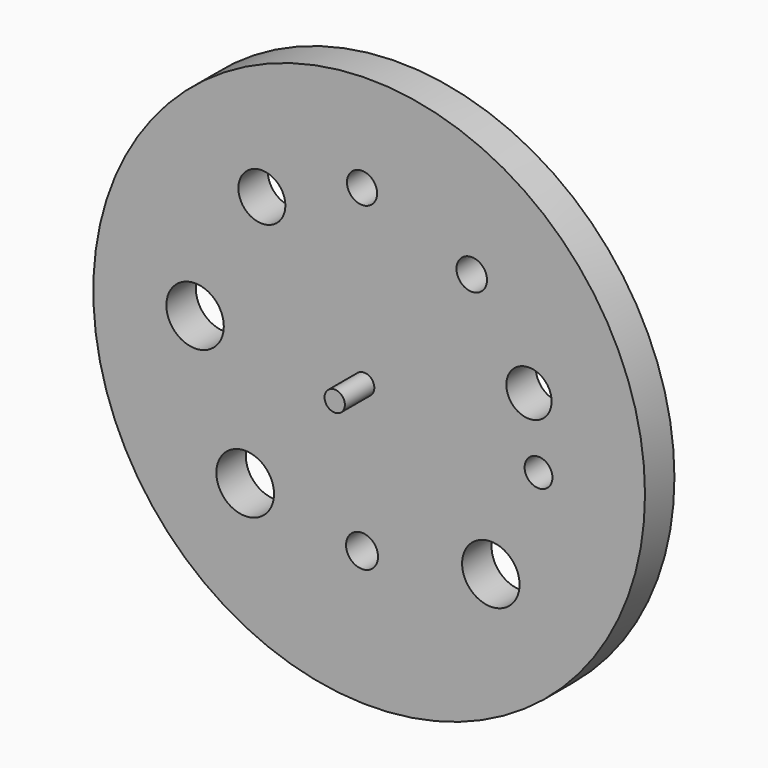
from build123d import *

# Parameters (mm, degrees)
F0_R     = 19.05
F1_DEPTH = 2.54
F3_R     = 1.041647
F3_R_2   = 1.054587
F3_R_3   = 1.562468
F3_R_4   = 0.960349
F3_R_5   = 1.983236
F3_R_6   = 1.104833
F3_R_7   = 1.99006
F3_R_8   = 1.983233
F3_R_9   = 1.622095
F4_DEPTH = 25.4
F6_R     = 0.702637
F7_DEPTH = 2.54
F8_R     = 1.5875
F9_DEPTH = 3.175


with BuildPart() as f1:
    # F0 (on Front) → F1 (new body)
    with BuildSketch(Plane.XZ):
        with Locations((-40.385999, 44.069)):
            Circle(F0_R)
    extrude(amount=-F1_DEPTH)

    # F3 (on face) → F4 (cut)
    with BuildSketch(Plane.XZ):
        with Locations((-40.877204, 56.347888)):
            Circle(F3_R)
        with Locations((-33.301067, 53.548012)):
            Circle(F3_R_2)
        with Locations((-29.348301, 47.618862)):
            Circle(F3_R_3)
        with Locations((-28.689506, 43.007299)):
            Circle(F3_R_4)
        with Locations((-31.98348, 35.760563)):
            Circle(F3_R_5)
        with Locations((-40.877204, 34.278274)):
            Circle(F3_R_6)
        with Locations((-48.947435, 35.760563)):
            Circle(F3_R_7)
        with Locations((-52.406106, 44.818986)):
            Circle(F3_R_8)
        with Locations((-47.794547, 53.548012)):
            Circle(F3_R_9)
    extrude(amount=-F4_DEPTH, mode=Mode.SUBTRACT)

    # F6 (on face) → F7 (join)
    with BuildSketch(Plane.XZ):
        with Locations((-40.731799, 44.465709)):
            Circle(F6_R)
    extrude(amount=F7_DEPTH)

    # F8 (on face) → F9 (join)
    with BuildSketch(Plane(origin=(0, 2.54, 0), x_dir=(-1, 0, 0), z_dir=(0, 1, 0))):
        with Locations((40.671818, 44.492617)):
            Circle(F8_R)
    extrude(amount=F9_DEPTH)


solid = f1.part
